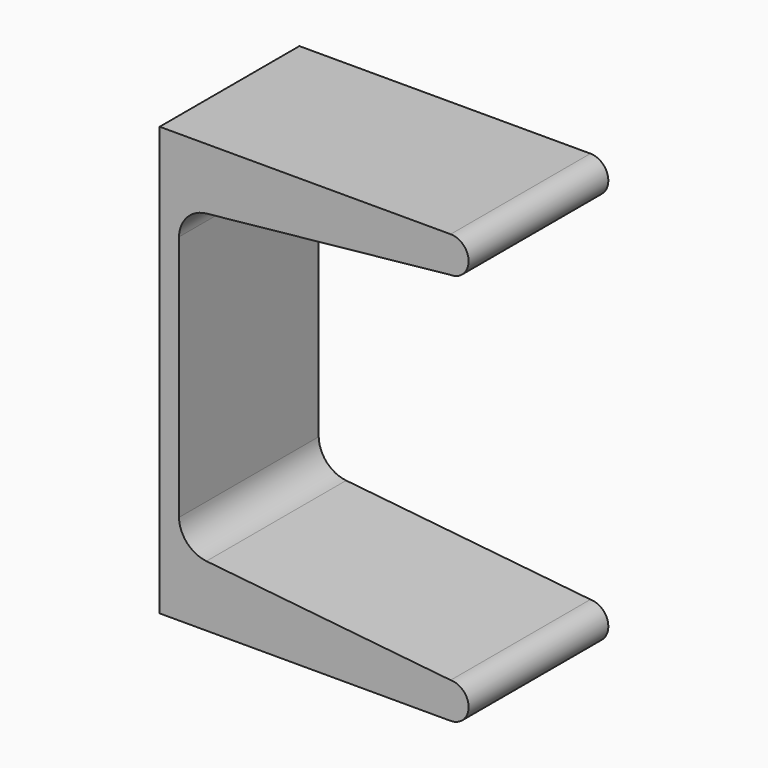
from build123d import *


with BuildPart() as f2:
    # F2: sweep along a path in F1
    with BuildLine(Plane.YZ) as f2_path:
        Line((0, -49.339343), (-39.070137, -49.339343))
    # F0 (on Front) → F2 (sweep)
    with BuildSketch(Plane.XZ):
        with BuildLine():
            Line((0, 47.922902), (0, 0))
            Line((0, 0), (0, -47.922902))
            Line((0, -47.922902), (65.1002, -47.922902))
            ThreePointArc((65.1002, -47.922902), (69.113448, -43.909654), (65.1002, -39.896406))
            Line((65.1002, -39.896406), (10.455907, -34.230649))
            ThreePointArc((10.455907, -34.230649), (6.144622, -32.079213), (4.318, -27.620591))
            Line((4.318, -27.620591), (4.318, 0))
            Line((4.318, 0), (4.318, 27.620591))
            ThreePointArc((4.318, 27.620591), (6.144622, 32.079213), (10.455907, 34.230649))
            Line((10.455907, 34.230649), (65.1002, 39.896406))
            ThreePointArc((65.1002, 39.896406), (69.113448, 43.909654), (65.1002, 47.922902))
            Line((65.1002, 47.922902), (0, 47.922902))
        make_face()
    sweep(path=f2_path.line)


solid = f2.part
